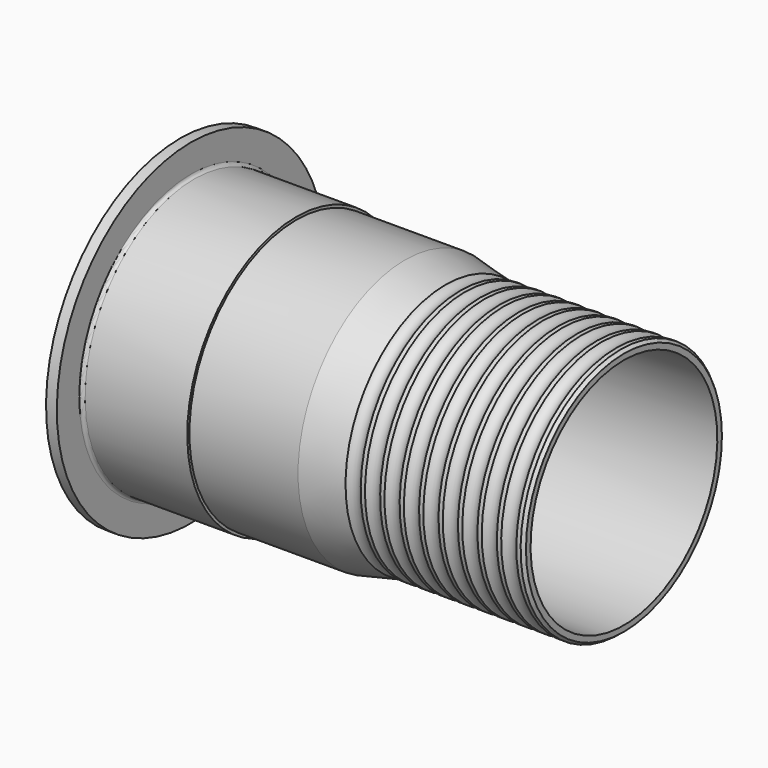
from build123d import *


with BuildPart() as f1:
    # F0 (on Front) → F1 (revolve)
    with BuildSketch(Plane.XZ):
        with BuildLine():
            Line((-0.666935, 0), (0, 0))
            Line((0, 0), (135, 0))
            Line((135, 0), (160, -5.15))
            Line((160, -5.15), (270, -5.15))
            Line((270, -5.15), (270, -1.61633))
            ThreePointArc((270, -1.61633), (268.912392, -0.916569), (268, 0))
            Line((268, 0), (265.367497, 0))
            ThreePointArc((265.367497, 0), (260.683748, -2.25), (256, 0))
            Line((256, 0), (253.367497, 0))
            ThreePointArc((253.367497, 0), (248.683748, -2.25), (244, 0))
            Line((244, 0), (241.367497, 0))
            ThreePointArc((241.367497, 0), (236.683748, -2.25), (232, 0))
            Line((232, 0), (229.367497, 0))
            ThreePointArc((229.367497, 0), (224.683748, -2.25), (220, 0))
            Line((220, 0), (217.367497, 0))
            ThreePointArc((217.367497, 0), (212.683748, -2.25), (208, 0))
            Line((208, 0), (205.367497, 0))
            ThreePointArc((205.367497, 0), (200.683748, -2.25), (196, 0))
            Line((196, 0), (193.367497, 0))
            ThreePointArc((193.367497, 0), (188.683748, -2.25), (184, 0))
            Line((184, 0), (181.367497, 0))
            ThreePointArc((181.367497, 0), (176.683748, -2.25), (172, 0))
            Line((172, 0), (169.367497, 0))
            ThreePointArc((169.367497, 0), (164.683748, -2.25), (160, 0))
            Line((160, 0), (135, 5.35))
            Line((135, 5.35), (68, 5.35))
            Line((68, 5.35), (68, 7))
            Line((68, 7), (5, 7))
            ThreePointArc((5, 7), (3.585786, 7.585786), (3, 9))
            Line((3, 9), (3, 26.287889))
            Line((3, 26.287889), (-3.666935, 26.287889))
            Line((-3.666935, 26.287889), (-3.666935, 3))
            ThreePointArc((-3.666935, 3), (-2.788256, 0.87868), (-0.666935, 0))
        make_face()
    revolve(axis=Axis((139.761062, 0, -77.15), (1, 0, 0)))


solid = f1.part
